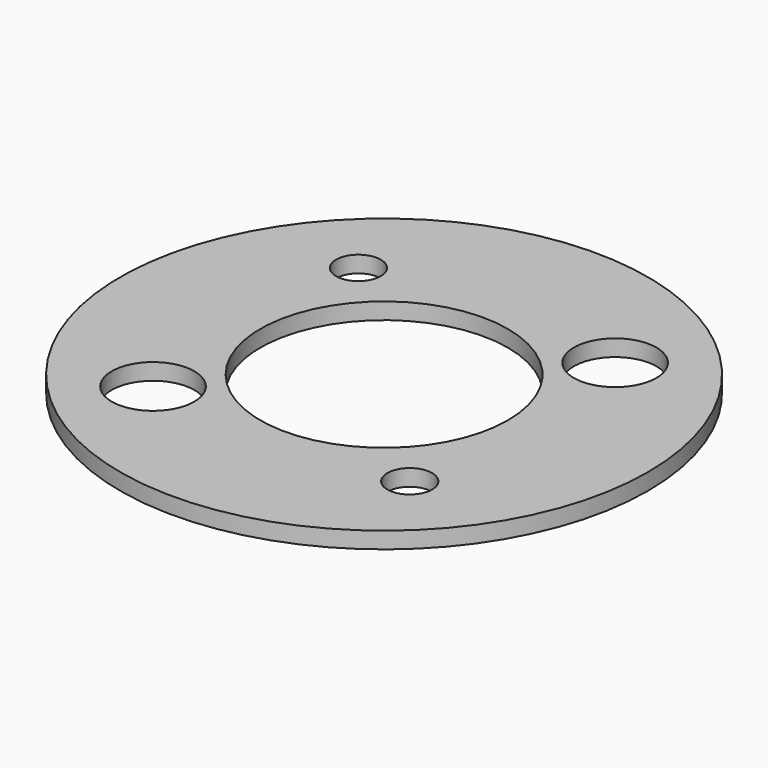
from build123d import *

# Parameters (mm, degrees)
F0_R     = 25.390702
F0_R_2   = 3.96875
F0_R_3   = 2.15265
F0_R_4   = 11.90625
F1_DEPTH = 1.5875


with BuildPart() as f1:
    # F0 (on Top) → F1 (new body)
    with BuildSketch(Plane.XY):
        Circle(F0_R)
        with Locations((-12.347852, -12.347852)):
            Circle(F0_R_2, mode=Mode.SUBTRACT)
        with Locations((12.347852, -12.347852)):
            Circle(F0_R_3, mode=Mode.SUBTRACT)
        with Locations((-12.347852, 12.347852)):
            Circle(F0_R_3, mode=Mode.SUBTRACT)
        Circle(F0_R_4, mode=Mode.SUBTRACT)
        with Locations((12.347852, 12.347852)):
            Circle(F0_R_2, mode=Mode.SUBTRACT)
    extrude(amount=F1_DEPTH)


solid = f1.part
